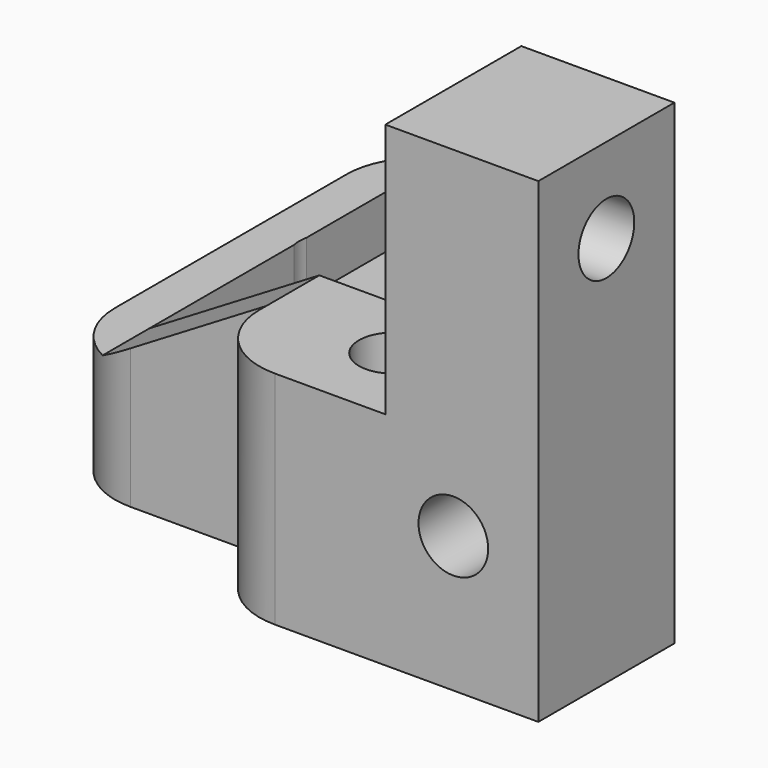
from build123d import *

# Parameters (mm, degrees)
PAD_DEPTH       = 56
SKETCH001_W     = 42
SKETCH001_H     = 48.2
POCKET_DEPTH    = 44.2
SKETCH002_R     = 1.6
SKETCH002_R_2   = 4.1
POCKET001_DEPTH = 56.001
SKETCH003_R     = 4.1
POCKET002_DEPTH = 20.001
SKETCH004_W     = 5
SKETCH004_H     = 42
POCKET003_DEPTH = 62.001
POCKET004_DEPTH = 62.001
SKETCH006_R     = 4.1
POCKET005_DEPTH = 65.001
FILLET_R        = 9


with BuildPart() as part:
    # Sketch → Pad (new body)
    with BuildSketch(Plane(origin=(0, 0, 0), x_dir=(1, 0, 0), z_dir=(0, 0, -1))):
        Polygon((-50, 40), (-10, 40), (-10, 20), (-28, 20), (-28, -22), (-75, -22), (-75, 30), (-50, 30), align=None)
    extrude(amount=PAD_DEPTH)

    # Sketch001 → Pocket (cut)
    with BuildSketch(Plane(origin=(0, 22, 0), x_dir=(1, 0, 0), z_dir=(0, 1, 0))):
        with Locations((-49, 24.1)):
            Rectangle(SKETCH001_W, SKETCH001_H)
    extrude(amount=-POCKET_DEPTH, mode=Mode.SUBTRACT)

    # Sketch002 → Pocket001 (cut, through all)
    with BuildSketch(Plane(origin=(0, 0, -56), x_dir=(1, 0, 0), z_dir=(0, 0, -1))):
        with Locations((-33, 17)):
            Circle(SKETCH002_R)
        with Locations((-64, 17)):
            Circle(SKETCH002_R)
        with Locations((-64, -14)):
            Circle(SKETCH002_R)
        with Locations((-35, 30)):
            Circle(SKETCH002_R_2)
        with BuildLine():
            Line((-60, 13), (-28, 13))
            Line((-28, 13), (-28, -22))
            Line((-60, -22), (-28, -22))
            Line((-60, -22), (-60, -0.5))
            Line((-61.930602, -0.5), (-60, -0.5))
            ThreePointArc((-61.930602, 0.5), (-70.1, 0), (-61.930602, -0.5))
            Line((-61.930602, 0.5), (-60, 0.5))
            Line((-60, 13), (-60, 0.5))
        make_face()
    extrude(amount=-POCKET001_DEPTH, mode=Mode.SUBTRACT)

    # Sketch003 → Pocket002 (cut, through all)
    with BuildSketch(Plane(origin=(0, -20, 0), x_dir=(1, 0, 0), z_dir=(0, 1, 0))):
        with Locations((-20, 40)):
            Circle(SKETCH003_R)
    extrude(amount=-POCKET002_DEPTH, mode=Mode.SUBTRACT)

    # Sketch004 → Pocket003 (cut, through all)
    with BuildSketch(Plane(origin=(0, 22, 0), x_dir=(1, 0, 0), z_dir=(0, 1, 0))):
        with Locations((-72.5, 21)):
            Rectangle(SKETCH004_W, SKETCH004_H)
    extrude(amount=-POCKET003_DEPTH, mode=Mode.SUBTRACT)

    # Sketch005 → Pocket004 (cut, through all)
    with BuildSketch(Plane(origin=(0, -40, 0), x_dir=(-1, 0, 0), z_dir=(0, -1, 0))):
        Polygon((28, 0), (28, 30), (50, 30), (70, 42), (70, 0), align=None)
    extrude(amount=-POCKET004_DEPTH, mode=Mode.SUBTRACT)

    # Sketch006 → Pocket005 (cut, through all)
    with BuildSketch(Plane(origin=(-10, 0, 0), x_dir=(0, -1, 0), z_dir=(1, 0, 0))):
        with Locations((30, 10)):
            Circle(SKETCH006_R)
    extrude(amount=-POCKET005_DEPTH, mode=Mode.SUBTRACT)

    # Fillet
    fillet_edges = [part.edges().sort_by_distance(p)[0] for p in [
        (-75, 22, -49),
        (-75, -30, -49),
        (-50, -40, -43),
    ]]
    fillet(fillet_edges, radius=FILLET_R)


solid = part.part
